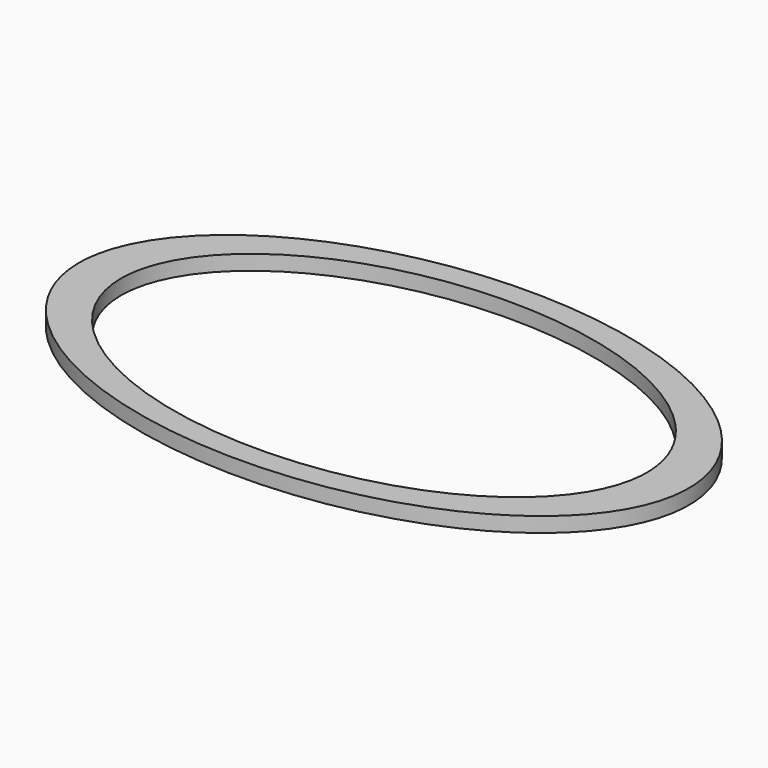
from build123d import *

# Parameters (mm, degrees)
F1_DEPTH = 1.5875


with BuildPart() as f1:
    # F0 (on Top) → F1 (new body)
    with BuildSketch(Plane.XY):
        with BuildLine():
            add(Edge.make_bspline(
                [(6.154613, -38.128597), (6.154613, -71.654781), (54.791128, -54.891689), (103.427642, -38.128597), (54.791128, -21.365505), (6.154613, -4.602413), (6.154613, -38.128597)],
                knots=[0, 0, 0, 2.094395, 2.094395, 4.18879, 4.18879, 6.283185, 6.283185, 6.283185], degree=2, weights=[1, 0.5, 1, 0.5, 1, 0.5, 1]))
        make_face()
        with BuildLine():
            add(Edge.make_bspline(
                [(10.635502, -38.128597), (10.635502, -67.360442), (52.550683, -52.744519), (94.465864, -38.128597), (52.550683, -23.512674), (10.635502, -8.896752), (10.635502, -38.128597)],
                knots=[0, 0, 0, 2.094395, 2.094395, 4.18879, 4.18879, 6.283185, 6.283185, 6.283185], degree=2, weights=[1, 0.5, 1, 0.5, 1, 0.5, 1]))
        make_face(mode=Mode.SUBTRACT)
    extrude(amount=F1_DEPTH)


solid = f1.part
